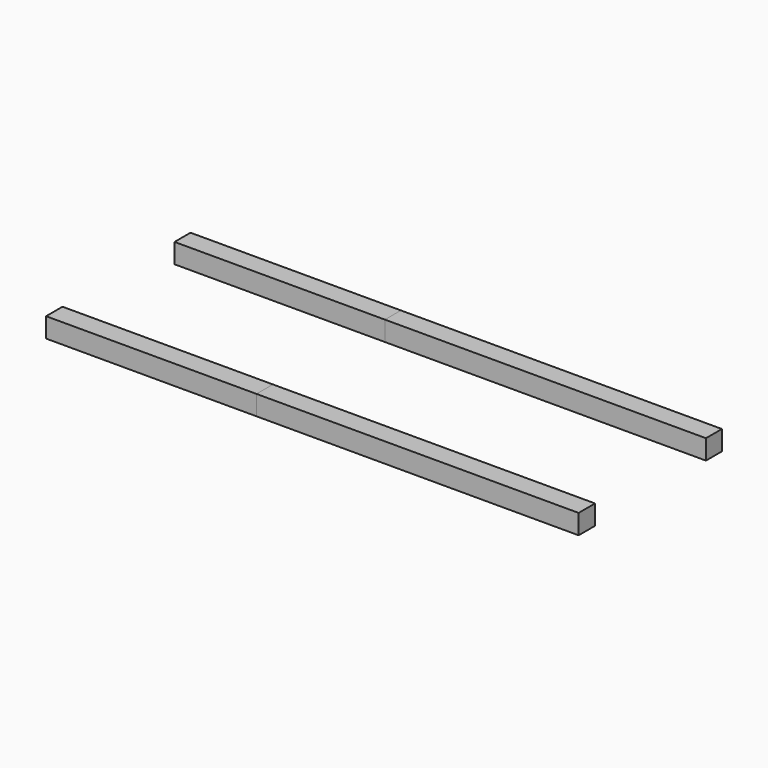
from build123d import *

# Parameters (mm, degrees)
F0_W     = 311.166420579
F0_H     = 19.8255479336
F1_DEPTH = 19.05
F0_W_2   = 310.0688308477
F0_H_2   = 19.2848816514
F2_DEPTH = 203.2


with BuildPart() as f1:
    # F0 (on Top) → F1 (new body)
    with BuildSketch(Plane.XY):
        with Locations((0.1521036029, -76.3522833586)):
            Rectangle(F0_W, F0_H)
    extrude(amount=F1_DEPTH)


with BuildPart() as f1b:
    # F0 (on Top) → F1, piece 2 (new body)
    with BuildSketch(Plane.XY):
        with Locations((-0.5380138755, 78.636135906)):
            Rectangle(F0_W_2, F0_H_2)
    extrude(amount=F1_DEPTH)


with BuildPart() as f2:
    # F2 (new): a face of the model
    f2_faces = [f1b.part.faces().sort_by_distance(p)[0] for p in [
        (-155.5724292994, 78.636135906, 9.525),
    ]]
    extrude(f2_faces, amount=F2_DEPTH)


with BuildPart() as f2b:
    # F2#2 (new): a face of the model
    f2_2_faces = [f1.part.faces().sort_by_distance(p)[0] for p in [
        (-155.4311066866, -76.3522833586, 9.525),
    ]]
    extrude(f2_2_faces, amount=F2_DEPTH)


solid = Compound([f1.part, f1b.part, f2.part, f2b.part])
